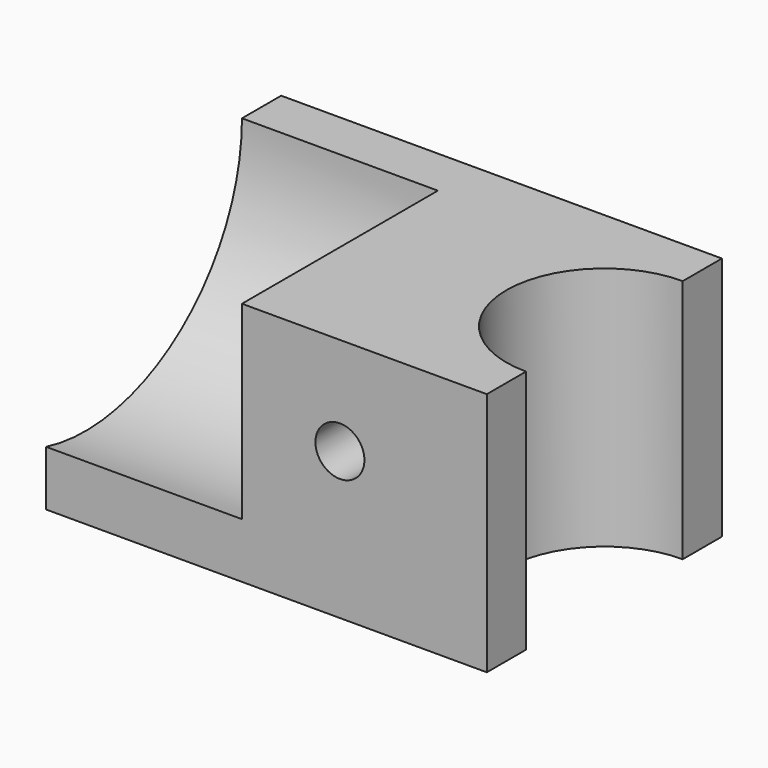
from build123d import *

# Parameters (mm, degrees)
F0_W     = 57.15
F0_H     = 38.1
F1_DEPTH = 31.75
F3_DEPTH = 31.75
F4_R     = 3.175
F5_DEPTH = 37.846
F6_DEPTH = 38.1
F7_R     = 25.4
F8_DEPTH = 25.4


with BuildPart() as f1:
    # F0 (on Top) → F1 (new body)
    with BuildSketch(Plane.XY):
        with Locations((42.536962, -12.618525)):
            Rectangle(F0_W, F0_H)
    extrude(amount=F1_DEPTH)

    # F2 (on face) → F3 (cut)
    with BuildSketch(Plane.XY.offset(31.75)):
        with BuildLine():
            ThreePointArc((71.111962, -25.318525), (80.092218, -21.598781), (83.811962, -12.618525))
            ThreePointArc((83.811962, -12.618525), (80.092218, -3.638269), (71.111962, 0.081475))
            Line((71.111962, 0.081475), (71.111962, -25.318525))
        make_face()
        with BuildLine():
            Line((71.111962, -25.318525), (71.111962, 0.081475))
            ThreePointArc((71.111962, 0.081475), (58.411962, -12.618525), (71.111962, -25.318525))
        make_face()
    extrude(amount=-F3_DEPTH, mode=Mode.SUBTRACT)

    # F4 (on face) → F5 (cut)
    with BuildSketch(Plane.XZ.offset(31.668525)):
        with Locations((52.061962, 19.05)):
            Circle(F4_R)
    extrude(amount=-F5_DEPTH, mode=Mode.SUBTRACT)

    # F4 (on face) → F6 (cut)
    with BuildSketch(Plane.XZ.offset(31.668525)):
        with Locations((52.061962, 19.05)):
            Circle(F4_R)
    extrude(amount=-F6_DEPTH, mode=Mode.SUBTRACT)

    # F7 (on face) → F8 (cut)
    with BuildSketch(Plane(origin=(13.961962, 0, 0), x_dir=(0, -1, 0), z_dir=(-1, 0, 0))):
        with Locations((25.318525, 31.75)):
            Circle(F7_R)
    extrude(amount=-F8_DEPTH, mode=Mode.SUBTRACT)


solid = f1.part
